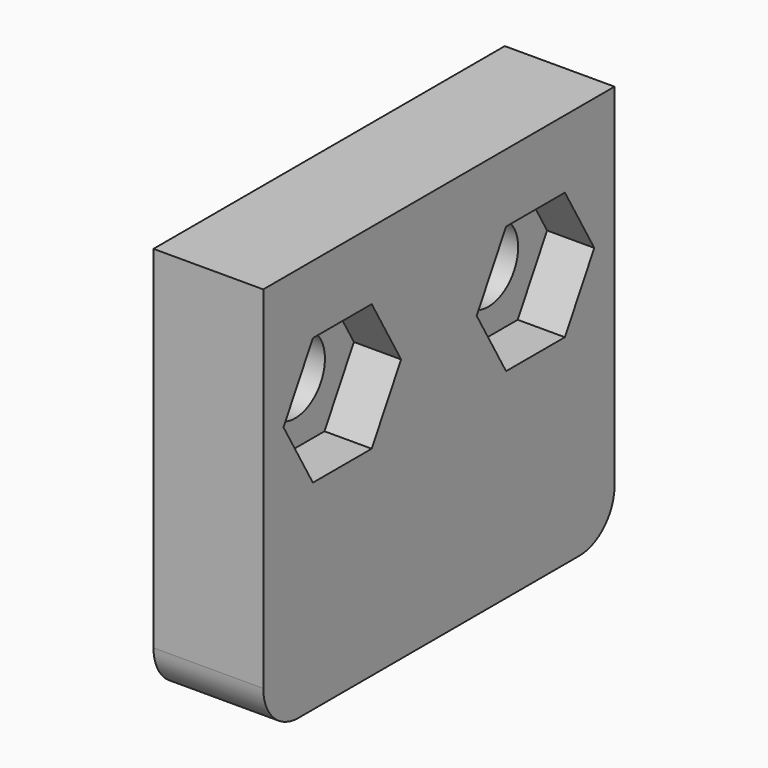
from build123d import *

# Parameters (mm, degrees)
SKETCH_W     = 20
SKETCH_H     = 18
PAD_DEPTH    = 5
SKETCH001_R  = 1.9
PAD001_DEPTH = 4.5
SKETCH002_R  = 1.7
HOLE_DEPTH   = 62.0711322935
POCKET_DEPTH = 2.15
CHAMFER_SIZE = 0.5
FILLET001_R  = 2


with BuildPart() as part:
    # Sketch → Pad (new body)
    with BuildSketch(Plane.YZ):
        with Locations((0, 9)):
            Rectangle(SKETCH_W, SKETCH_H)
    extrude(amount=-PAD_DEPTH)

    # Sketch001 (on Face6 of Pad) → Pad001 (join)
    with BuildSketch(Plane(origin=(-5, 0, 0), x_dir=(0, 1, 0), z_dir=(-1, 0, 0))):
        with Locations((0, -4)):
            Circle(SKETCH001_R)
    extrude(amount=PAD001_DEPTH)

    # Sketch002 (on Face5 of Pad001) → Hole (cut, through all)
    with BuildSketch(Plane(origin=(-5, 0, 0), x_dir=(0, 1, 0), z_dir=(-1, 0, 0))):
        with Locations((5.5, -12)):
            Circle(SKETCH002_R)
    hole = extrude(amount=-HOLE_DEPTH, mode=Mode.SUBTRACT)

    # Sketch003 (on Face4 of Hole) → Pocket (cut)
    with BuildSketch(Plane.YZ):
        Polygon((2.1513684387, 12), (3.8256842194, 9.1), (7.1743157806, 9.1), (8.8486315613, 12), (7.1743157806, 14.9), (3.8256842194, 14.9), align=None)
    pocket = extrude(amount=-POCKET_DEPTH, mode=Mode.SUBTRACT)

    # Mirrored: Hole, Pocket across XZ
    add(hole.mirror(Plane.XZ), mode=Mode.SUBTRACT)
    add(pocket.mirror(Plane.XZ), mode=Mode.SUBTRACT)

    # Chamfer
    chamfer_edges = [part.edges().sort_by_distance(p)[0] for p in [
        (-9.5, -1.9, 4),
    ]]
    chamfer(chamfer_edges, length=CHAMFER_SIZE)

    # Fillet001
    fillet001_edges = [part.edges().sort_by_distance(p)[0] for p in [
        (-2.5, 10, 0),
        (-2.5, -10, 0),
    ]]
    fillet(fillet001_edges, radius=FILLET001_R)


solid = part.part
